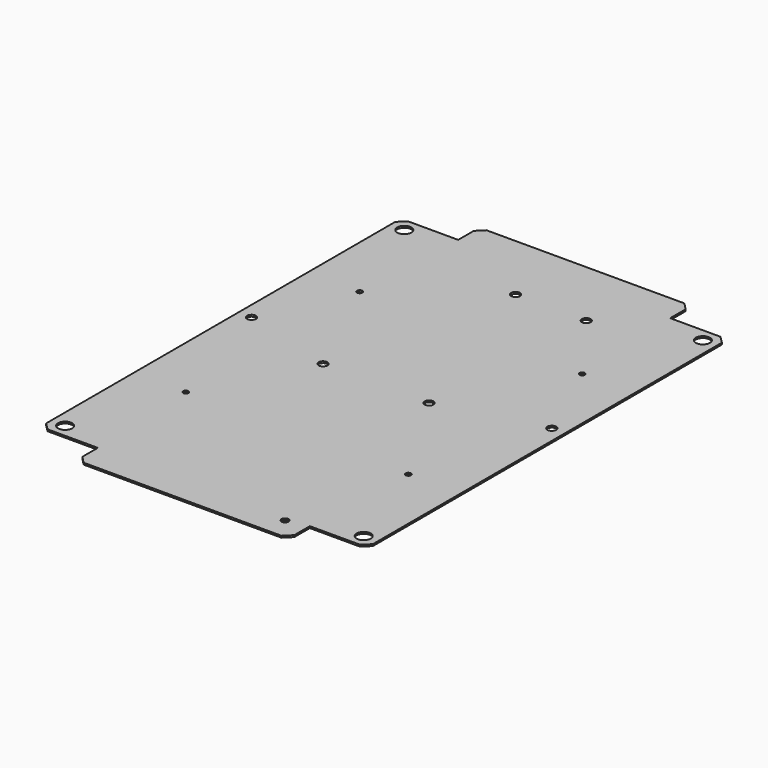
from build123d import *

# Parameters (mm, degrees)
F0_R     = 4
F0_R_2   = 1.5
F0_R_3   = 2.5
F0_R_4   = 2
F1_DEPTH = 0.5
F2_SIZE  = 4


with BuildPart() as f1:
    # F0 (on Top) → F1 (new body, symmetric)
    with BuildSketch(Plane.XY):
        Polygon((-92.5, 127.5), (-92.5, 0), (-92.5, -127.5), (-60, -127.5), (-60, -142.5), (0, -142.5), (60, -142.5), (60, -127.5), (92.5, -127.5), (92.5, 0), (92.5, 127.5), (60, 127.5), (60, 142.5), (0, 142.5), (-60, 142.5), (-60, 127.5), align=None)
        with Locations((-84.5, -120)):
            Circle(F0_R, mode=Mode.SUBTRACT)
        with Locations((-63, -61.5)):
            Circle(F0_R_2, mode=Mode.SUBTRACT)
        with Locations((-32.5, -2.5)):
            Circle(F0_R_3, mode=Mode.SUBTRACT)
        with Locations((48, -130)):
            Circle(F0_R_4, mode=Mode.SUBTRACT)
        with Locations((84.5, -120)):
            Circle(F0_R, mode=Mode.SUBTRACT)
        with Locations((27.5, -2.5)):
            Circle(F0_R_3, mode=Mode.SUBTRACT)
        with Locations((63, -61.5)):
            Circle(F0_R_2, mode=Mode.SUBTRACT)
        with Locations((-85, 12.5)):
            Circle(F0_R_3, mode=Mode.SUBTRACT)
        with Locations((-63, 61.5)):
            Circle(F0_R_2, mode=Mode.SUBTRACT)
        with Locations((-84.5, 120)):
            Circle(F0_R, mode=Mode.SUBTRACT)
        with Locations((-7.5, 102.5)):
            Circle(F0_R_3, mode=Mode.SUBTRACT)
        with Locations((85, 12.5)):
            Circle(F0_R_3, mode=Mode.SUBTRACT)
        with Locations((63, 61.5)):
            Circle(F0_R_2, mode=Mode.SUBTRACT)
        with Locations((32.5, 102.5)):
            Circle(F0_R_3, mode=Mode.SUBTRACT)
        with Locations((84.5, 120)):
            Circle(F0_R, mode=Mode.SUBTRACT)
    extrude(amount=F1_DEPTH, both=True)

    # F2
    f2_edges = [f1.edges().sort_by_distance(p)[0] for p in [
        (-92.5, 127.5, 0),
        (-60, 142.5, 0),
        (60, 142.5, 0),
        (92.5, 127.5, 0),
        (92.5, -127.5, 0),
        (60, -142.5, 0),
        (-60, -142.5, 0),
        (-92.5, -127.5, 0),
    ]]
    chamfer(f2_edges, length=F2_SIZE)


solid = f1.part
